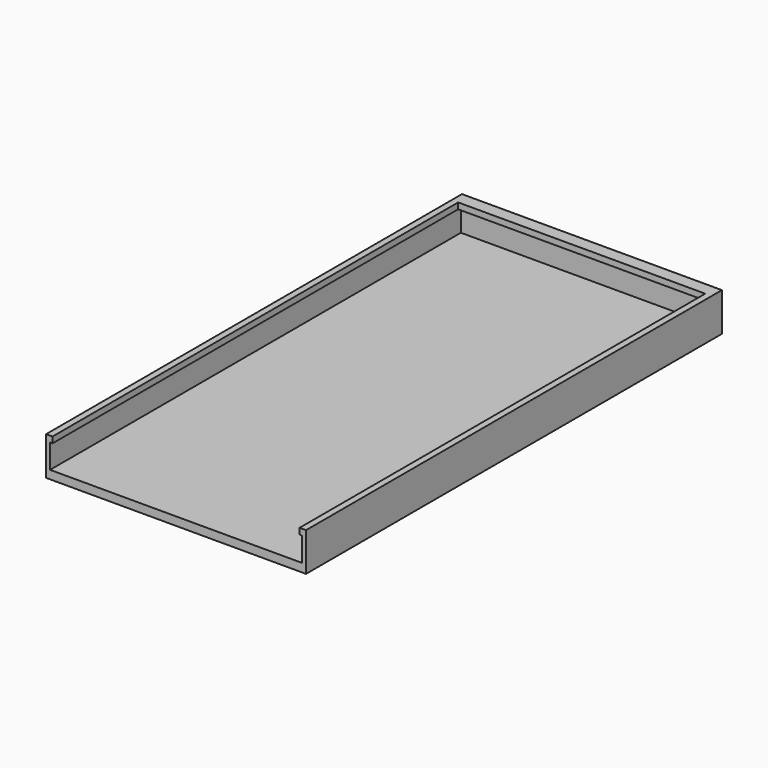
from build123d import *

# Parameters (mm, degrees)
F0_W     = 81
F0_H     = 162
F1_DEPTH = 12
F3_DEPTH = 160
F5_DEPTH = 7.431314


with BuildPart() as f1:
    # F0 (on Top) → F1 (new body)
    with BuildSketch(Plane.XY):
        with Locations((-32.540516, 31.026223)):
            Rectangle(F0_W, F0_H)
    extrude(amount=F1_DEPTH)

    # F2 (on face) → F3 (cut)
    with BuildSketch(Plane.XZ.offset(49.973777)):
        Polygon((6.709484, 7.660007), (6.709484, 10.115228), (-71.790516, 10.115228), (-71.790516, 7.937757), (-71.790516, 2.615228), (6.709484, 2.615228), align=None)
    extrude(amount=-F3_DEPTH, mode=Mode.SUBTRACT)

    # F4 (on face) → F5 (cut)
    with BuildSketch(Plane.XY.offset(12)):
        Polygon((5.959484, 108.026223), (-71.040516, 108.026223), (-71.040516, -44.254787), (-71.040516, -49.973777), (5.959484, -49.973777), (5.959484, -43.884151), align=None)
    extrude(amount=-F5_DEPTH, mode=Mode.SUBTRACT)


solid = f1.part
